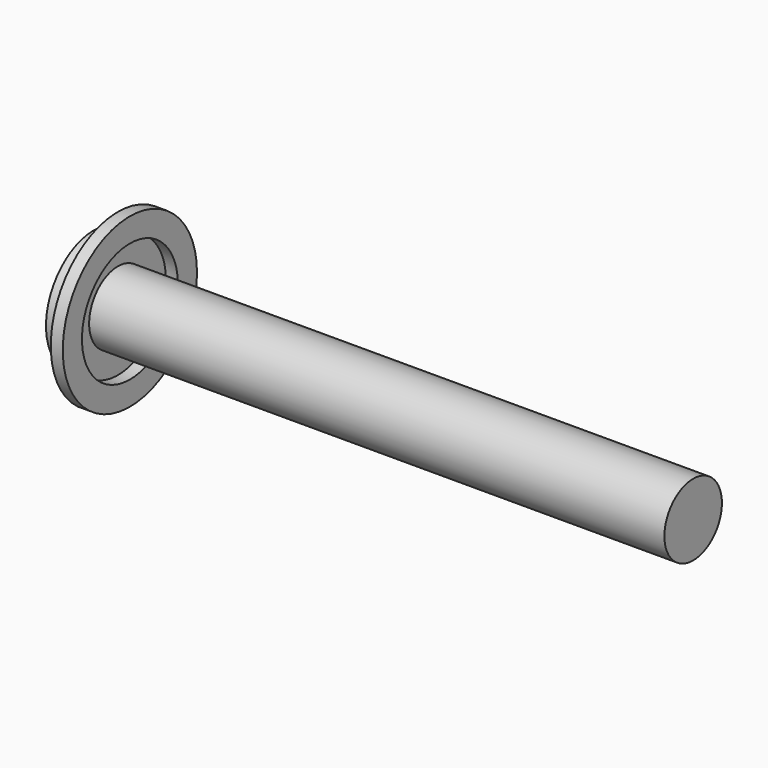
from build123d import *

# Parameters (mm, degrees)
F0_R     = 4.7625
F1_DEPTH = 76.2
F2_R     = 11.1125
F2_R_2   = 7.9375
F3_DEPTH = 1.5875
F4_DEPTH = 3.175


with BuildPart() as f1:
    # F0 (on Right) → F1 (new body)
    with BuildSketch(Plane.YZ):
        Circle(F0_R)
    extrude(amount=F1_DEPTH)


with BuildPart() as f3:
    # F2 (on Right) → F3 (new body)
    with BuildSketch(Plane.YZ):
        Circle(F2_R)
        Circle(F2_R_2, mode=Mode.SUBTRACT)
    extrude(amount=F3_DEPTH)


with BuildPart() as f4:
    # F2 (on Right) → F4 (new body)
    with BuildSketch(Plane.YZ):
        Circle(F2_R_2)
    extrude(amount=-F4_DEPTH)


solid = Compound([f1.part, f3.part, f4.part])
